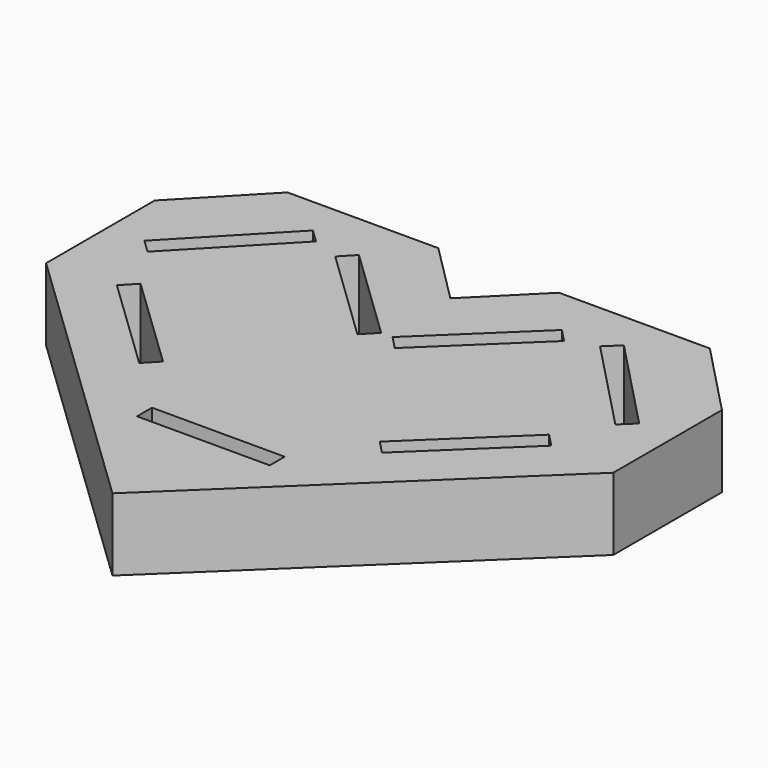
from build123d import *

# Parameters (mm, degrees)
F1_DEPTH = 12
F2_W     = 22
F2_H     = 3.1
F3_DEPTH = 25


with BuildPart() as f1:
    # F0 (on Top) → F1 (new body)
    with BuildSketch(Plane.XY):
        Polygon((-47, -16), (0, -61), (47, -16), (47, 6.5), (35, 19), (10, 19), (0, 9), (-10, 19), (-35, 19), (-47, 6.5), align=None)
    extrude(amount=F1_DEPTH)

    # F2 (on face) → F3 (cut)
    with BuildSketch(Plane.XY.offset(12)):
        Polygon((38.763699, -5.280595), (41, -3.133746), (25.7643, 12.736775), (23.527999, 10.589926), align=None)
        Polygon((17.965352, -28.073372), (20.109224, -30.312527), (36, -15.097954), (33.856128, -12.858799), align=None)
        with Locations((0, -40.611379)):
            Rectangle(F2_W, F2_H)
        Polygon((-17.965352, -28.073372), (-33.856128, -12.858799), (-36, -15.097954), (-20.109224, -30.312527), align=None)
        Polygon((3.095425, -6.391532), (18.965946, 8.844169), (16.819097, 11.080469), (0.948576, -4.155231), align=None)
        Polygon((-18.965946, 8.844169), (-3.095425, -6.391532), (-0.948576, -4.155231), (-16.819097, 11.080469), align=None)
        Polygon((-38.763699, -5.280595), (-23.527999, 10.589926), (-25.7643, 12.736775), (-41, -3.133746), align=None)
    extrude(amount=-F3_DEPTH, mode=Mode.SUBTRACT)


solid = f1.part
